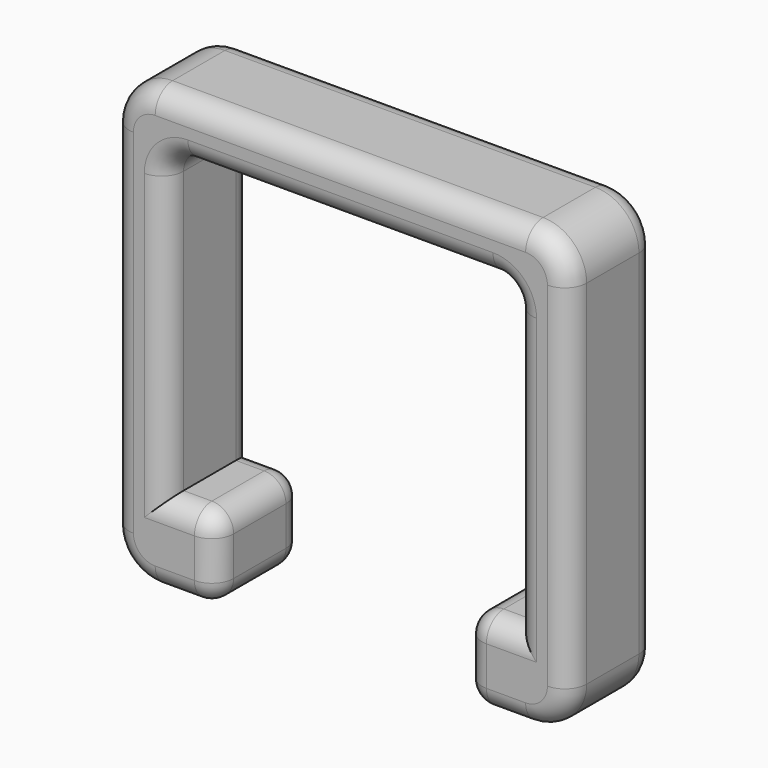
from build123d import *

# Parameters (mm, degrees)
PAD_DEPTH = 5
FILLET_R  = 1


with BuildPart() as part:
    # Sketch → Pad (new body)
    with BuildSketch(Plane.XZ):
        with BuildLine():
            Line((-8, 5.95), (-8, -6.95))
            Line((-8, -6.95), (-5.7, -6.95))
            Line((-5.7, -6.95), (-5.7, -10.75))
            Line((-5.7, -10.75), (-8.5, -10.75))
            ThreePointArc((-10.5, -8.75), (-9.914214, -10.164214), (-8.5, -10.75))
            Line((-10.5, -8.75), (-10.5, 7.45))
            ThreePointArc((-8.5, 9.45), (-9.914214, 8.864214), (-10.5, 7.45))
            Line((-8.5, 9.45), (8.5, 9.45))
            ThreePointArc((10.5, 7.45), (9.914214, 8.864214), (8.5, 9.45))
            Line((10.5, 7.45), (10.5, -8.75))
            ThreePointArc((8.5, -10.75), (9.914214, -10.164214), (10.5, -8.75))
            Line((8.5, -10.75), (5.7, -10.75))
            Line((5.7, -10.75), (5.7, -6.95))
            Line((5.7, -6.95), (8, -6.95))
            Line((8, -6.95), (8, 5.95))
            ThreePointArc((8, 5.95), (7.707107, 6.657107), (7, 6.95))
            Line((7, 6.95), (-7, 6.95))
            ThreePointArc((-7, 6.95), (-7.707107, 6.657107), (-8, 5.95))
        make_face()
    extrude(amount=PAD_DEPTH)

    # Fillet
    fillet_edges = [part.edges().sort_by_distance(p)[0] for p in [
        (-6.85, -5, -6.95),
        (-8, -5, -0.5),
        (-5.7, -2.5, -6.95),
        (-5.7, -5, -8.85),
        (-5.7, -2.5, -10.75),
        (-10.5, -5, -0.65),
        (-8, 0, -0.5),
        (-6.85, 0, -6.95),
        (-5.7, 0, -8.85),
        (0, 0, 9.45),
        (5.7, -5, -8.85),
        (5.7, -2.5, -10.75),
        (5.7, 0, -8.85),
        (5.7, -2.5, -6.95),
        (6.85, -5, -6.95),
        (7.1, -5, -10.75),
        (10.5, -5, -0.65),
        (8, -5, -0.5),
        (8, 0, -0.5),
        (-10.5, 0, -0.65),
        (0, -5, 9.45),
        (10.5, 0, -0.65),
        (6.85, 0, -6.95),
    ]]
    fillet(fillet_edges, radius=FILLET_R)


solid = part.part
